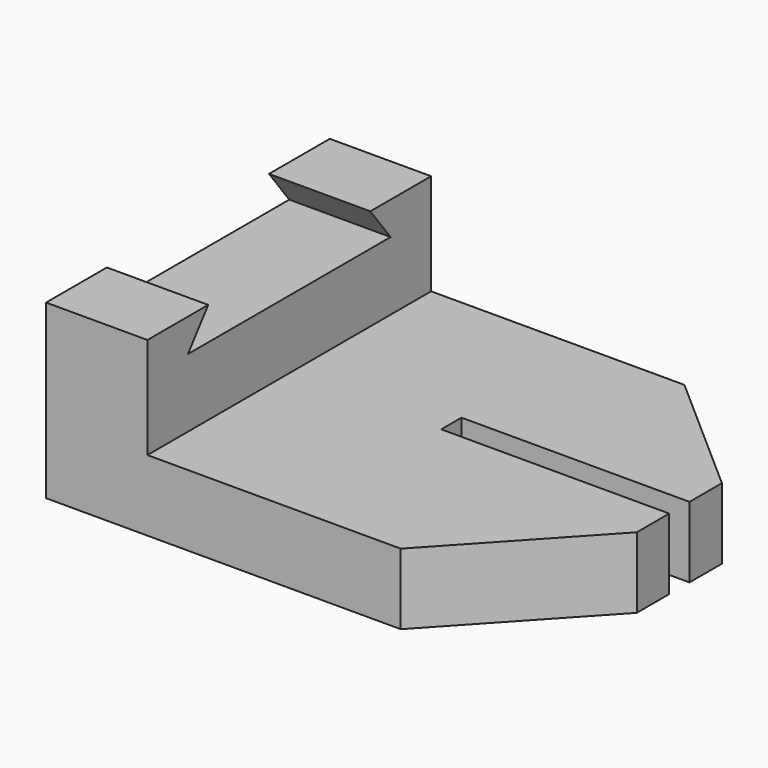
from build123d import *

# Parameters (mm, degrees)
F0_W      = 47.5
F0_H      = 35
F1_DEPTH  = 17
F2_W      = 37.5
F2_H      = 35
F3_DEPTH  = 10
F5_DEPTH  = 10.001
F6_W      = 22.5
F6_H      = 2.5
F7_DEPTH  = 7.001
F9_DEPTH  = 7.001
F11_DEPTH = 7.001


with BuildPart() as f1:
    # F0 (on Top) → F1 (new body)
    with BuildSketch(Plane.XY):
        with Locations((-79.0966801345, -8.9940691388)):
            Rectangle(F0_W, F0_H)
    extrude(amount=F1_DEPTH)

    # F2 (on face) → F3 (cut)
    with BuildSketch(Plane.XY.offset(17)):
        with Locations((-74.0966801345, -8.9940691388)):
            Rectangle(F2_W, F2_H)
    extrude(amount=-F3_DEPTH, mode=Mode.SUBTRACT)

    # F4 (on face) → F5 (cut, through all)
    with BuildSketch(Plane.YZ.offset(-92.8466801345)):
        Polygon((1.0059308612, 17), (-18.9940691388, 17), (-21.4939605839, 13.7453228235), (3.5060394161, 13.7453228235), align=None)
    extrude(amount=-F5_DEPTH, mode=Mode.SUBTRACT)

    # F6 (on face) → F7 (cut, through all)
    with BuildSketch(Plane.XY.offset(7)):
        with Locations((-66.5966801345, -7.7440691388)):
            Rectangle(F6_W, F6_H)
    extrude(amount=-F7_DEPTH, mode=Mode.SUBTRACT)

    # F8 (on face) → F9 (cut, through all)
    with BuildSketch(Plane.XY.offset(7)):
        Polygon((-55.3466801345, 8.5059308612), (-67.8466801345, 8.5059308612), (-55.3466801345, -2.4940691388), align=None)
    extrude(amount=-F9_DEPTH, mode=Mode.SUBTRACT)

    # F10 (on face) → F11 (cut, through all)
    with BuildSketch(Plane.XY.offset(7)):
        Polygon((-55.3466801345, -26.4940691388), (-55.3466801345, -12.9940691388), (-67.8466801345, -26.4940691388), align=None)
    extrude(amount=-F11_DEPTH, mode=Mode.SUBTRACT)


solid = f1.part
